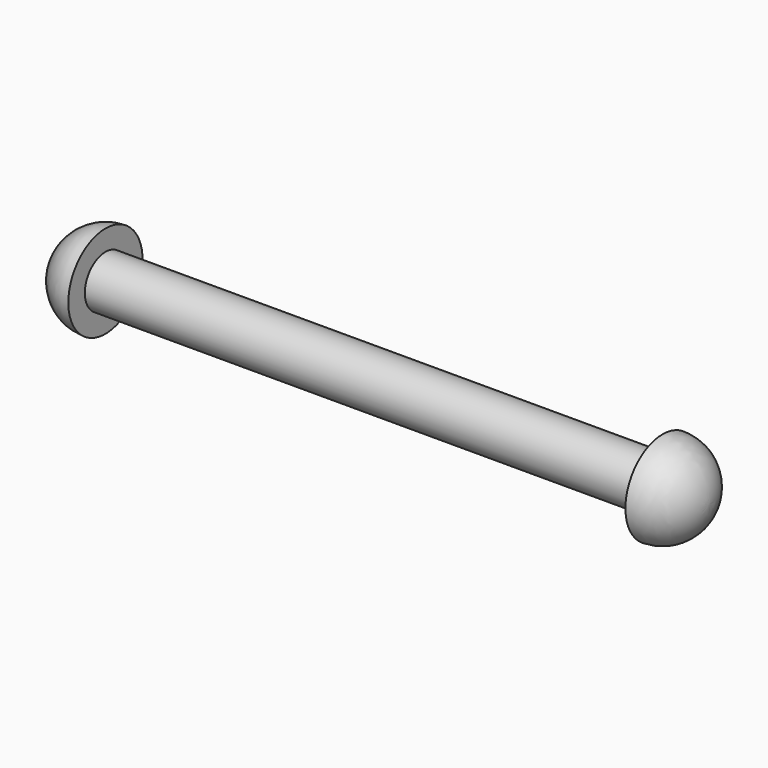
from build123d import *


with BuildPart() as f1:
    # F0 (on Front) → F1 (revolve)
    with BuildSketch(Plane.XZ):
        with BuildLine():
            Line((-74.295, 3.175), (-74.295, 5.715))
            ThreePointArc((-74.295, 5.715), (-78.336115, 4.041115), (-80.01, 0))
            Line((-80.01, 0), (0, 0))
            ThreePointArc((0, 0), (-1.673885, 4.041115), (-5.715, 5.715))
            Line((-5.715, 5.715), (-5.715, 3.175))
            Line((-5.715, 3.175), (-74.295, 3.175))
        make_face()
    revolve(axis=Axis((8.346166, 0, 0), (1, 0, 0)))


solid = f1.part
